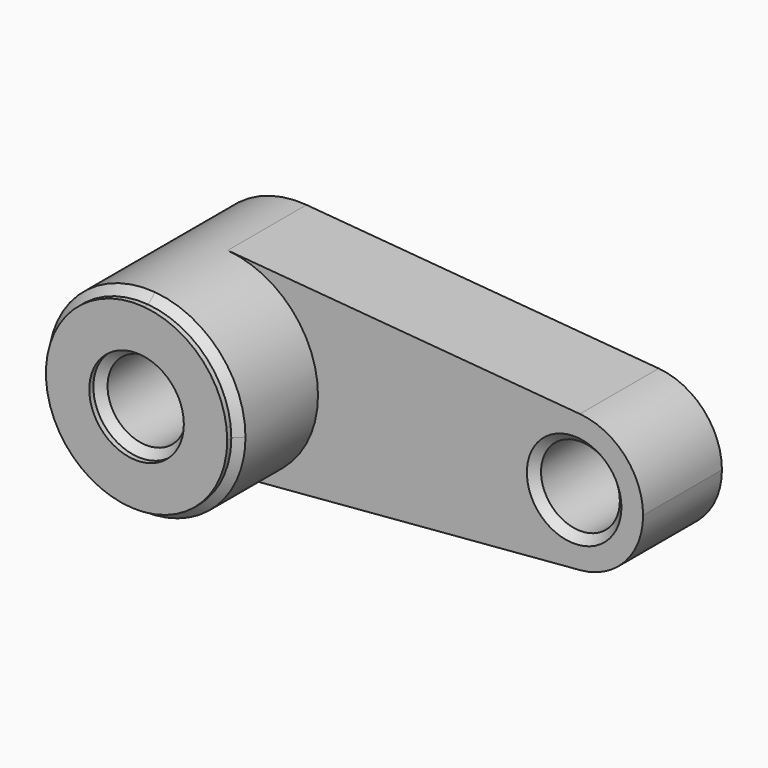
from build123d import *

# Parameters (mm, degrees)
F0_R     = 10
F1_DEPTH = 25
F2_DEPTH = 50
F3_SIZE  = 2
F4_DEPTH = 1.3


with BuildPart() as f1:
    # F0 (on Front) → F1 (new body)
    with BuildSketch(Plane.XZ):
        with BuildLine():
            ThreePointArc((2.0833333333, -24.9130432148), (18.3995018048, -16.9250800097), (25, 0))
            ThreePointArc((25, 0), (18.3995018048, 16.9250800097), (2.0833333333, 24.9130432148))
            ThreePointArc((2.0833333333, 24.9130432148), (-25, 0), (2.0833333333, -24.9130432148))
        make_face()
        Circle(F0_R, mode=Mode.SUBTRACT)
        with BuildLine():
            ThreePointArc((2.0833333333, 24.9130432148), (18.3995018048, 16.9250800097), (25, 0))
            ThreePointArc((25, 0), (18.3995018048, -16.9250800097), (2.0833333333, -24.9130432148))
            Line((2.0833333333, -24.9130432148), (91.4583333333, -17.4391302504))
            ThreePointArc((91.4583333333, -17.4391302504), (72.5, 0), (91.4583333333, 17.4391302504))
            Line((91.4583333333, 17.4391302504), (2.0833333333, 24.9130432148))
        make_face()
        with BuildLine():
            ThreePointArc((107.5, 0), (102.8796512634, 11.8475560068), (91.4583333333, 17.4391302504))
            ThreePointArc((91.4583333333, 17.4391302504), (72.5, 0), (91.4583333333, -17.4391302504))
            ThreePointArc((91.4583333333, -17.4391302504), (102.8796512634, -11.8475560068), (107.5, 0))
        make_face()
        with Locations((90, 0)):
            Circle(F0_R, mode=Mode.SUBTRACT)
    extrude(amount=F1_DEPTH)

    # F0 (on Front) → F2 (join)
    with BuildSketch(Plane.XZ):
        with BuildLine():
            ThreePointArc((2.0833333333, -24.9130432148), (18.3995018048, -16.9250800097), (25, 0))
            ThreePointArc((25, 0), (18.3995018048, 16.9250800097), (2.0833333333, 24.9130432148))
            ThreePointArc((2.0833333333, 24.9130432148), (-25, 0), (2.0833333333, -24.9130432148))
        make_face()
        Circle(F0_R, mode=Mode.SUBTRACT)
    extrude(amount=F2_DEPTH)

    # F3
    f3_edges = [f1.edges().sort_by_distance(p)[0] for p in [
        (-2.083333, -50, 24.913043),
        (-10, -50, 0),
        (80, -25, 0),
    ]]
    chamfer(f3_edges, length=F3_SIZE)

    # F4 (add): a face of the model
    f4_faces = [f1.faces().sort_by_distance(p)[0] for p in [
        (-1.8624551468, -50, 22.2717242675),
    ]]
    extrude(f4_faces, amount=F4_DEPTH)


solid = f1.part
